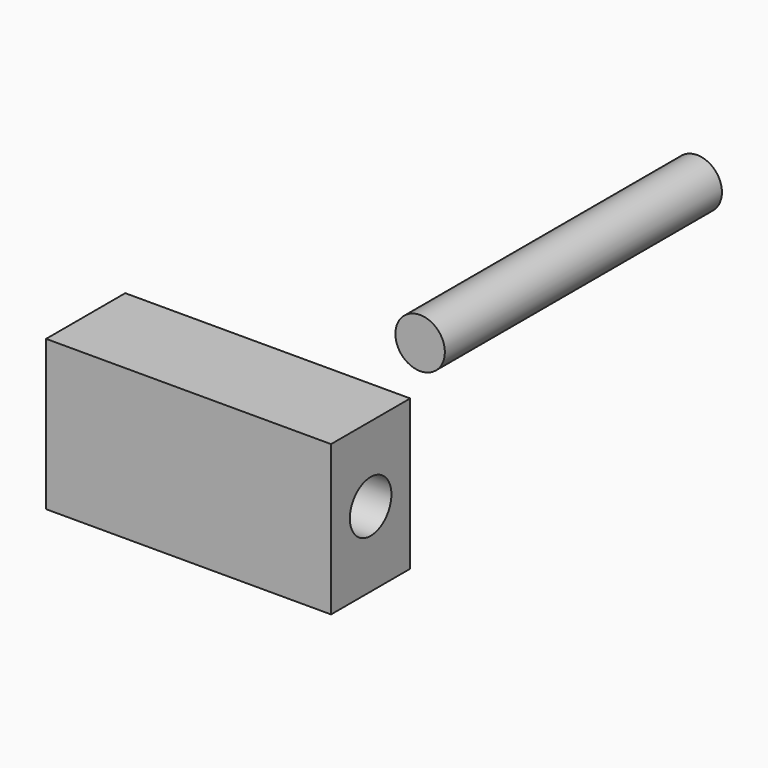
from build123d import *

# Parameters (mm, degrees)
F0_W     = 146.29735
F0_H     = 76.986366
F1_DEPTH = 50.8
F2_R     = 13.322924
F3_DEPTH = 228.6
F5_R     = 12.7
F6_DEPTH = 177.8


with BuildPart() as f1:
    # F0 (on Front) → F1 (new body)
    with BuildSketch(Plane.XZ):
        Rectangle(F0_W, F0_H)
    extrude(amount=F1_DEPTH)

    # F2 (on face) → F3 (cut)
    with BuildSketch(Plane.YZ.offset(73.148675)):
        with Locations((-25.4, 0)):
            Circle(F2_R)
    extrude(amount=-F3_DEPTH, mode=Mode.SUBTRACT)


with BuildPart() as f6:
    # F5 (on offset) → F6 (new body)
    with BuildSketch(Plane.XZ.offset(-275.59)):
        Circle(F5_R)
    extrude(amount=F6_DEPTH)


solid = Compound([f1.part, f6.part])
